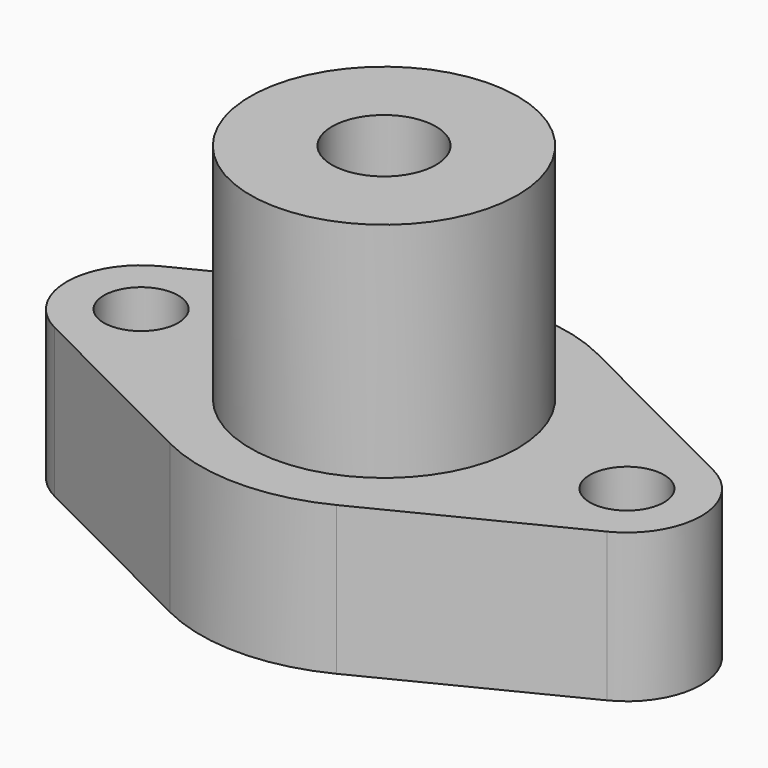
from build123d import *

# Parameters (mm, degrees)
F1_DEPTH = 20
F2_R     = 10
F3_R     = 25
F4_R     = 18
F5_DEPTH = 30
F7_D     = 10
F9_D     = 14
F9_DEPTH = 31
F9_TIP   = 4.2060243332


with BuildPart() as f1:
    # F0 (on Top) → F1 (new body)
    with BuildSketch(Plane.XY):
        Polygon((0, 27.6), (-55, 0), (0, -27.6), (55, 0), align=None)
    extrude(amount=F1_DEPTH)

    # F2
    f2_edges = [f1.edges().sort_by_distance(p)[0] for p in [
        (55, 0, 10),
        (-55, 0, 10),
    ]]
    fillet(f2_edges, radius=F2_R)

    # F3
    f3_edges = [f1.edges().sort_by_distance(p)[0] for p in [
        (0, -27.6, 10),
        (0, 27.6, 10),
    ]]
    fillet(f3_edges, radius=F3_R)

    # F4 (on face) → F5 (join)
    with BuildSketch(Plane.XY.offset(20)):
        Circle(F4_R)
    extrude(amount=F5_DEPTH)

    # F7 (through all)
    with Locations(Plane.XY.offset(20)):
        with Locations((-32.7041102381, 0), (32.7041102381, 0)):
            Hole(F7_D / 2)

    # F9
    with Locations(Plane.XY.offset(50)):
        with Locations((0, 0)):
            Hole(F9_D / 2, depth=F9_DEPTH)
            with Locations((0, 0, -(F9_DEPTH + F9_TIP / 2))):  # 118° drill point
                Cone(0, F9_D / 2, F9_TIP, mode=Mode.SUBTRACT)


solid = f1.part
